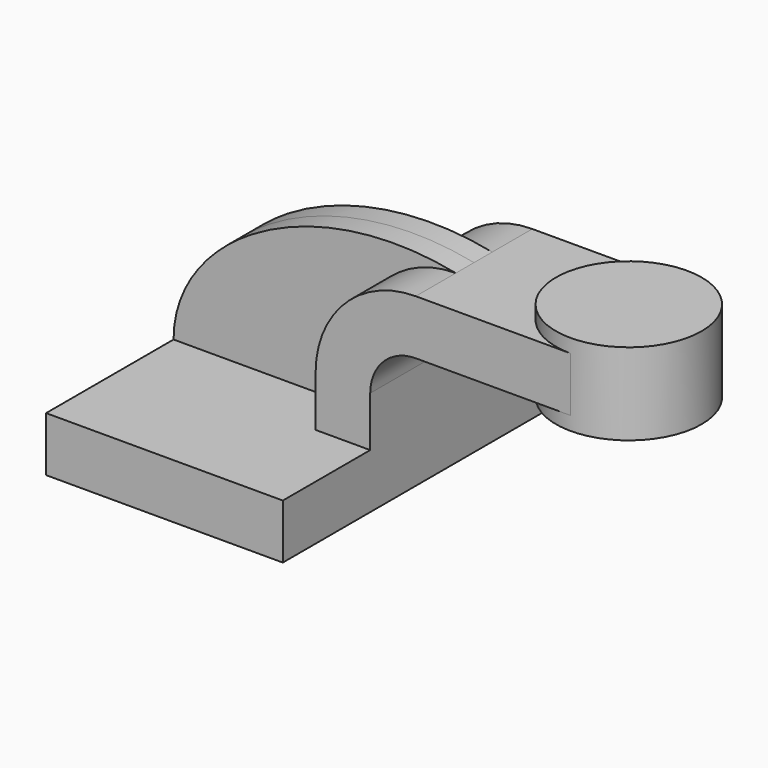
from build123d import *

# Parameters (mm, degrees)
F1_DEPTH = 63.5
F0_W     = 25.4
F0_H     = 19.05
F2_DEPTH = 25.4
F3_DEPTH = 7.9375


with BuildPart() as f1:
    # F0 (on Front) → F1 (new body, symmetric)
    with BuildSketch(Plane.XZ):
        Polygon((22.225, 9.525), (-41.275, 9.525), (-41.275, -9.525), (41.275, -9.525), (41.275, 9.525), align=None)
    extrude(amount=F1_DEPTH, both=True)

    # F0 (on Front) → F2 (join, symmetric)
    with BuildSketch(Plane.XZ):
        with BuildLine():
            Line((22.225, 27.0002), (22.225, 9.525))
            Line((22.225, 9.525), (41.275, 9.525))
            Line((41.275, 9.525), (41.275, 27.0002))
            ThreePointArc((41.275, 27.0002), (45.9246798487, 38.2255201513), (57.15, 42.8752))
            Line((57.15, 42.8752), (85.725, 42.8752))
            Line((85.725, 42.8752), (85.725, 61.9252))
            Line((85.725, 61.9252), (57.15, 61.9252))
            ThreePointArc((57.15, 61.9252), (32.4542956671, 51.6959043329), (22.225, 27.0002))
        make_face()
        with Locations((98.425, 52.4002)):
            Rectangle(F0_W, F0_H)
    extrude(amount=F2_DEPTH, both=True)

    # F0 (on Front) → F3 (join, symmetric)
    with BuildSketch(Plane.XZ):
        with BuildLine():
            add(Edge.make_bspline(
                [(-41.275, 9.525), (-41.2765443325, 43.204266578), (5.9362053871, 72.3337382078), (57.15, 61.9252)],
                knots=[0, 0, 0, 0, 111.5045361635, 111.5045361635, 111.5045361635, 111.5045361635], degree=3))
            Line((-41.275, 9.525), (22.225, 9.525))
            Line((22.225, 9.525), (22.225, 27.0002))
            ThreePointArc((22.225, 27.0002), (32.4542956671, 51.6959043329), (57.15, 61.9252))
        make_face()
    extrude(amount=F3_DEPTH, both=True)

    # F0 (on Front) → F4 (revolve)
    with BuildSketch(Plane.XZ):
        Polygon((111.125, 66.675), (111.125, 61.9252), (111.125, 42.8752), (111.125, 38.1), (136.525, 38.1), (136.525, 66.675), align=None)
    revolve(axis=Axis((111.125, 0, 52.3875), (0, 0, -1)))


with BuildPart() as f5_1:
    # F5: copy of F1
    add(f1.part)


with BuildPart() as f6_1:
    # F6: copy of F1
    add(f1.part.moved(Location((50.8, 50.8, 50.8))))


solid = f1.part
